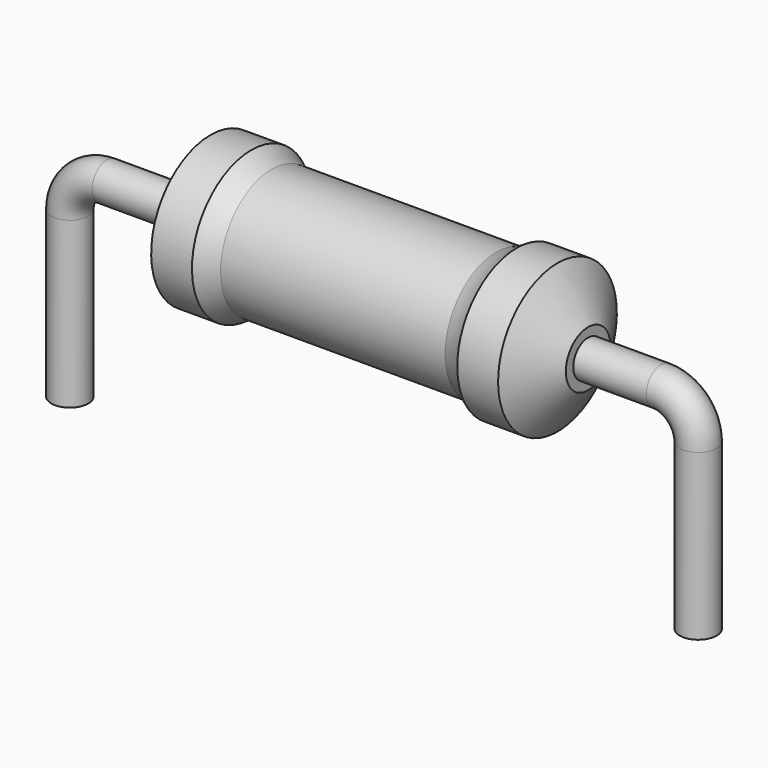
from build123d import *

# Parameters (mm, degrees)
SKETCH_R = 0.45


with BuildPart() as revolution:
    # Sketch002 → Revolution (revolve)
    with BuildSketch(Plane.XZ):
        with BuildLine():
            Line((3.4125, 3.7), (4.4025, 3.7))
            ThreePointArc((4.4025, 3.7), (4.639758, 3.555766), (4.8975, 3.4525))
            Line((4.8975, 3.4525), (10.3425, 3.4525))
            ThreePointArc((10.3425, 3.4525), (10.600242, 3.555766), (10.8375, 3.7))
            Line((10.8375, 3.7), (11.8275, 3.7))
            ThreePointArc((12.57, 2.575), (12.20028, 3.13851), (11.8275, 3.7))
            Line((12.57, 1.9), (12.57, 2.575))
            Line((2.67, 1.9), (12.57, 1.9))
            Line((2.67, 1.9), (2.67, 2.575))
            ThreePointArc((3.4125, 3.7), (3.03972, 3.13851), (2.67, 2.575))
        make_face()
    revolve(axis=Axis((2.67, 0, 1.9), (1, 0, 0)))


with BuildPart() as sweep_body:
    # Sweep: sweep along a path in Sketch001
    with BuildLine(Plane.XZ) as sweep_path:
        Line((0, -3), (0, 1))
        ThreePointArc((0, 1), (0.263608, 1.6364), (0.900011, 1.9))
        Line((0.900011, 1.9), (14.34, 1.9))
        ThreePointArc((14.34, 1.9), (14.976396, 1.636396), (15.24, 1))
        Line((15.24, 1), (15.24, -3))
    # Sketch → Sweep (sweep)
    with BuildSketch(Plane.XY.offset(-2)):
        Circle(SKETCH_R)
    sweep(path=sweep_path.line)


solid = Compound([revolution.part, sweep_body.part])
